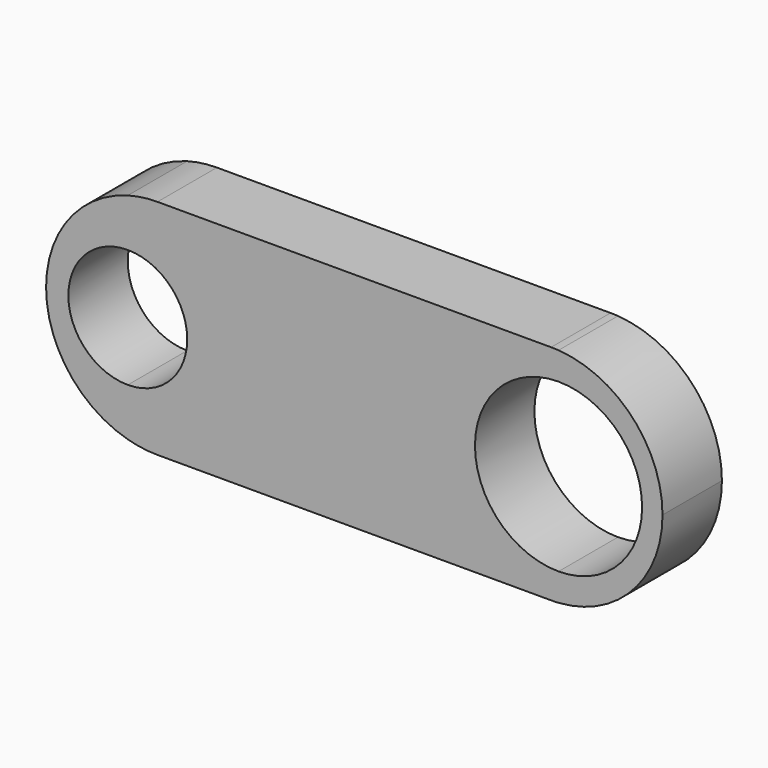
from build123d import *

# Parameters (mm, degrees)
F1_DEPTH = 10


with BuildPart() as f1:
    # F0 (on Front) → F1 (new body)
    with BuildSketch(Plane.XZ):
        with BuildLine():
            Line((-26.5, -15), (26.5, -15))
            ThreePointArc((26.5, -15), (27.000278, -14.991655), (27.5, -14.96663))
            Line((27.5, -14.96663), (27.5, -11.25))
            ThreePointArc((27.5, -11.25), (16.25, 0), (27.5, 11.25))
            Line((27.5, 11.25), (27.5, 14.96663))
            ThreePointArc((27.5, 14.96663), (27.000278, 14.991655), (26.5, 15))
            Line((26.5, 15), (-26.5, 15))
            ThreePointArc((-26.5, 15), (-28.518355, 14.863588), (-30.5, 14.456832))
            Line((-30.5, 14.456832), (-30.5, 8))
            ThreePointArc((-30.5, 8), (-24.843146, 5.656854), (-22.5, 0))
            ThreePointArc((-22.5, 0), (-24.843146, -5.656854), (-30.5, -8))
            Line((-30.5, -8), (-30.5, -14.456832))
            ThreePointArc((-30.5, -14.456832), (-28.518355, -14.863588), (-26.5, -15))
        make_face()
        with BuildLine():
            Line((27.5, -11.25), (27.5, -14.96663))
            ThreePointArc((27.5, -14.96663), (37.454451, -10.246951), (41.5, 0))
            ThreePointArc((41.5, 0), (37.454451, 10.246951), (27.5, 14.96663))
            Line((27.5, 14.96663), (27.5, 11.25))
            ThreePointArc((27.5, 11.25), (35.454951, 7.954951), (38.75, 0))
            ThreePointArc((38.75, 0), (35.454951, -7.954951), (27.5, -11.25))
        make_face()
        with BuildLine():
            ThreePointArc((-41.5, 0), (-38.437336, -9.082951), (-30.5, -14.456832))
            Line((-30.5, -14.456832), (-30.5, -8))
            ThreePointArc((-30.5, -8), (-38.5, 0), (-30.5, 8))
            Line((-30.5, 8), (-30.5, 14.456832))
            ThreePointArc((-30.5, 14.456832), (-38.437336, 9.082951), (-41.5, 0))
        make_face()
    extrude(amount=F1_DEPTH)


solid = f1.part
